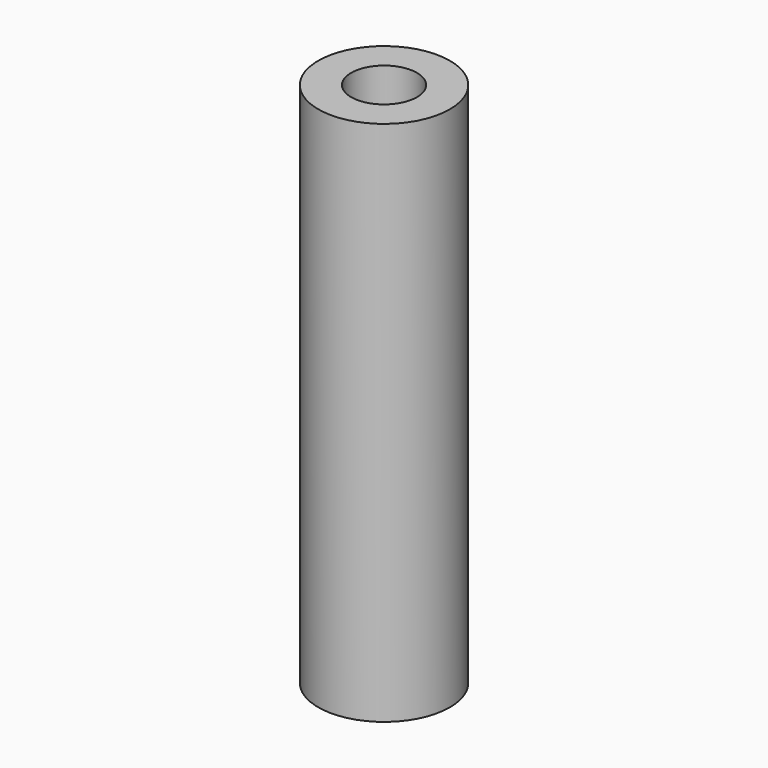
from build123d import *

# Parameters (mm, degrees)
CYLINDER213_R     = 2
CYLINDER213_DEPTH = 37
CYLINDER011_R     = 4
CYLINDER011_DEPTH = 32


with BuildPart() as cylinder213:
    # Cylinder213 → Cylinder213 (new body)
    with BuildSketch(Plane(origin=(15.2, -98, 0), x_dir=(1, 0, 0), z_dir=(0, 0, 1))):
        Circle(CYLINDER213_R)
    extrude(amount=CYLINDER213_DEPTH)


with BuildPart() as cut177:
    # Cylinder011 → Cylinder011 (new body)
    with BuildSketch(Plane(origin=(15.2, -98, 0), x_dir=(1, 0, 0), z_dir=(0, 0, 1))):
        Circle(CYLINDER011_R)
    extrude(amount=CYLINDER011_DEPTH)

    # Cut177: cut Cylinder213
    add(cylinder213.part, mode=Mode.SUBTRACT)


with BuildPart() as cut177_1:
    # Cut177 placement: moved
    add(cut177.part.moved(Location((-8.2, 0, 0))))


solid = cut177_1.part
